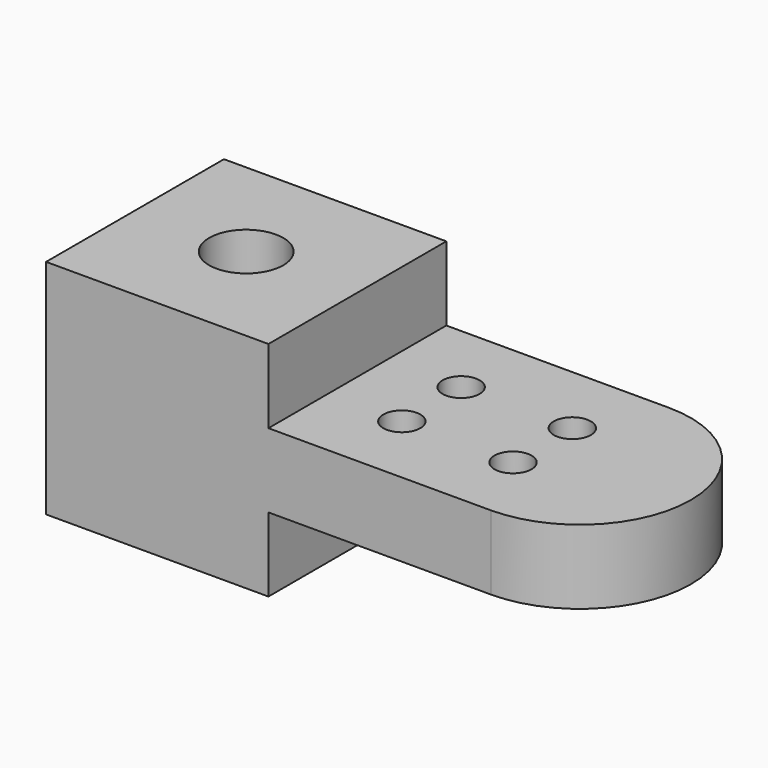
from build123d import *

# Parameters (mm, degrees)
F0_W     = 38.1
F0_H     = 38.1
F1_DEPTH = 19.05
F2_DEPTH = 6.35
F3_R     = 6.35
F3_R_2   = 3.175
F4_DEPTH = 38.101


with BuildPart() as f1:
    # F0 (on Top) → F1 (new body, symmetric)
    with BuildSketch(Plane.XY):
        with Locations((19.05, 19.05)):
            Rectangle(F0_W, F0_H)
    extrude(amount=F1_DEPTH, both=True)

    # F0 (on Top) → F2 (join, symmetric)
    with BuildSketch(Plane.XY):
        with BuildLine():
            Line((38.1, 38.1), (38.1, 0))
            Line((38.1, 0), (76.2, 0))
            ThreePointArc((76.2, 0), (95.25, 19.05), (76.2, 38.1))
            Line((76.2, 38.1), (38.1, 38.1))
        make_face()
    extrude(amount=F2_DEPTH, both=True)

    # F3 (on face) → F4 (cut, through all)
    with BuildSketch(Plane.XY.offset(19.05)):
        with Locations((19.05, 19.05)):
            Circle(F3_R)
        with Locations((50.8, 25.4)):
            Circle(F3_R_2)
        with Locations((50.8, 12.7)):
            Circle(F3_R_2)
        with Locations((69.85, 12.7)):
            Circle(F3_R_2)
        with Locations((69.85, 25.4)):
            Circle(F3_R_2)
    extrude(amount=-F4_DEPTH, mode=Mode.SUBTRACT)


solid = f1.part
